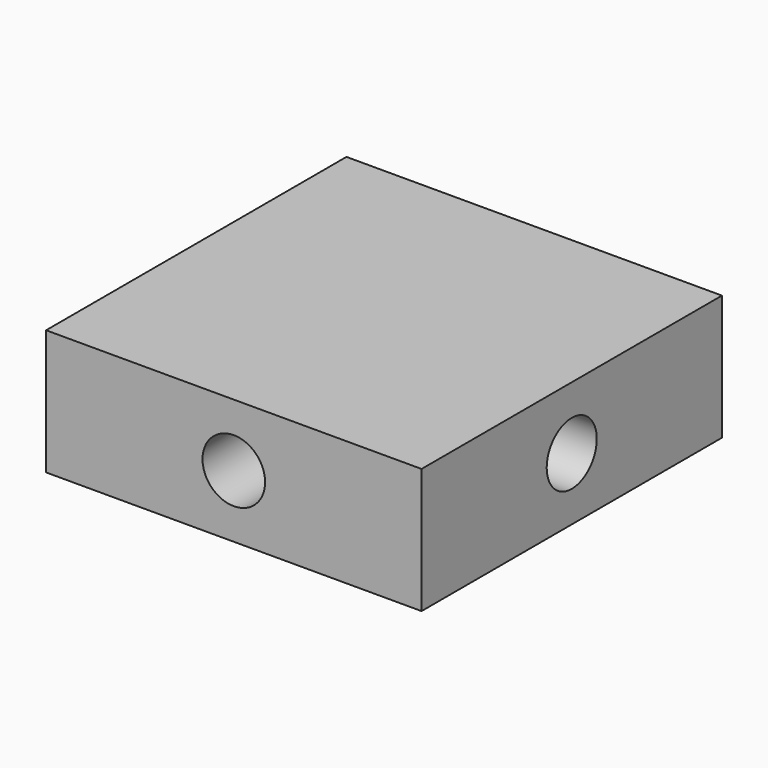
from build123d import *

# Parameters (mm, degrees)
F0_W     = 152.4
F0_H     = 152.4
F1_DEPTH = 50.8
F3_R     = 12.7
F4_DEPTH = 152.4
F2_R     = 12.7
F5_DEPTH = 152.4


with BuildPart() as f1:
    # F0 (on Top) → F1 (new body)
    with BuildSketch(Plane.XY):
        Rectangle(F0_W, F0_H)
    extrude(amount=F1_DEPTH)

    # F3 (on face) → F4 (cut)
    with BuildSketch(Plane(origin=(0, 76.2, 0), x_dir=(-1, 0, 0), z_dir=(0, 1, 0))):
        with Locations((0, 25.4)):
            Circle(F3_R)
    extrude(amount=-F4_DEPTH, mode=Mode.SUBTRACT)

    # F2 (on face) → F5 (cut)
    with BuildSketch(Plane(origin=(-76.2, 0, 0), x_dir=(0, -1, 0), z_dir=(-1, 0, 0))):
        with Locations((0, 25.4)):
            Circle(F2_R)
    extrude(amount=-F5_DEPTH, mode=Mode.SUBTRACT)


solid = f1.part
